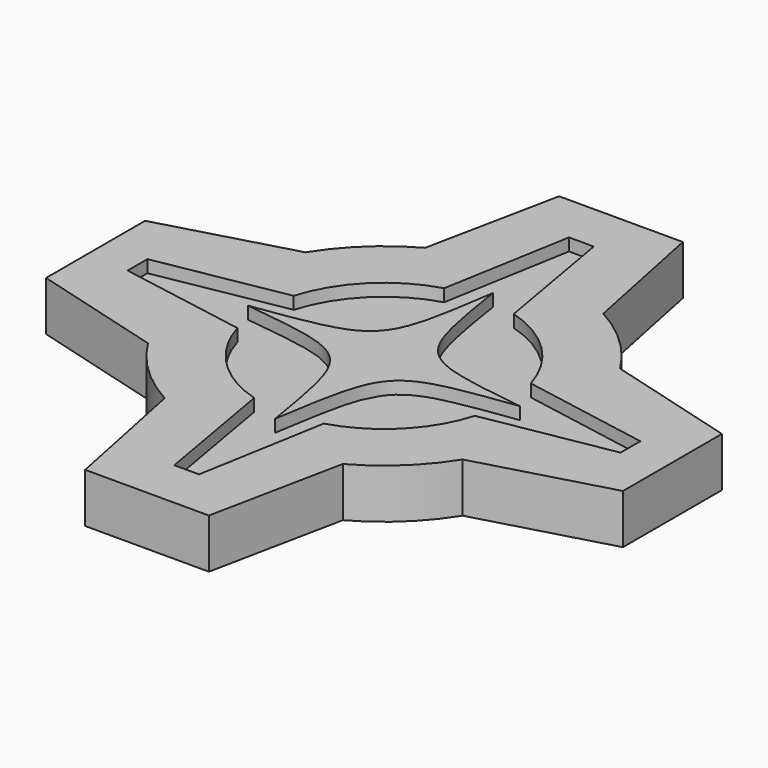
from build123d import *

# Parameters (mm, degrees)
F1_DEPTH = 2
F2_DEPTH = 1.5


with BuildPart() as f1:
    # F0 (on Top) → F1 (new body)
    with BuildSketch(Plane.XY):
        with BuildLine():
            Line((2.5, 11.969367), (-2.5, 11.969367))
            Line((-2.5, 11.969367), (-3.598701, 6.580224))
            ThreePointArc((-3.598701, 6.580224), (-5.145545, 5.456497), (-6.357999, 3.978171))
            Line((-6.357999, 3.978171), (-11.655641, 2.5))
            Line((-11.655641, 2.5), (-11.655641, -2.5))
            Line((-11.655641, -2.5), (-6.357999, -3.978171))
            ThreePointArc((-6.357999, -3.978171), (-5.145545, -5.456497), (-3.598701, -6.580224))
            Line((-3.598701, -6.580224), (-2.5, -11.969367))
            Line((-2.5, -11.969367), (2.5, -11.969367))
            Line((2.5, -11.969367), (3.598701, -6.580224))
            ThreePointArc((3.598701, -6.580224), (5.145545, -5.456497), (6.357999, -3.978171))
            Line((6.357999, -3.978171), (11.655641, -2.5))
            Line((11.655641, -2.5), (11.655641, 2.5))
            Line((11.655641, 2.5), (6.357999, 3.978171))
            ThreePointArc((6.357999, 3.978171), (5.145545, 5.456497), (3.598701, 6.580224))
            Line((3.598701, 6.580224), (2.5, 11.969367))
        make_face()
        with BuildLine():
            ThreePointArc((-4.792149, 1.426642), (-3.528005, 3.543047), (-1.406242, 4.798175))
            Line((-1.406242, 4.798175), (-0.5, 9.969367))
            Line((-0.5, 9.969367), (0.5, 9.969367))
            Line((0.5, 9.969367), (1.406242, 4.798175))
            ThreePointArc((1.406242, 4.798175), (3.528005, 3.543047), (4.792149, 1.426642))
            Line((4.792149, 1.426642), (9.959724, 0.5))
            Line((9.959724, 0.5), (9.959724, -0.5))
            Line((9.959724, -0.5), (4.798697, -1.404461))
            ThreePointArc((4.798697, -1.404461), (3.53619, -3.534878), (1.406242, -4.798175))
            Line((1.406242, -4.798175), (0.5, -9.969367))
            Line((0.5, -9.969367), (-0.5, -9.969367))
            Line((-0.5, -9.969367), (-1.406242, -4.798175))
            ThreePointArc((-1.406242, -4.798175), (-3.53619, -3.534878), (-4.798697, -1.404461))
            Line((-4.798697, -1.404461), (-9.959724, -0.5))
            Line((-9.959724, -0.5), (-9.959724, 0.5))
            Line((-9.959724, 0.5), (-4.792149, 1.426642))
        make_face(mode=Mode.SUBTRACT)
        with BuildLine():
            add(Edge.make_bspline(
                [(0, 5.5), (-0.722807, 0.69105), (-0.722807, 0.69105), (-5.5, 0)],
                knots=[0, 0, 0, 0, 7.778175, 7.778175, 7.778175, 7.778175], degree=3))
            add(Edge.make_bspline(
                [(-5.5, 0), (-0.81189, -0.58381), (-0.81189, -0.58381), (0, -5.5)],
                knots=[0, 0, 0, 0, 7.778175, 7.778175, 7.778175, 7.778175], degree=3))
            add(Edge.make_bspline(
                [(0, -5.5), (0.769275, -0.638917), (0.769275, -0.638917), (5.5, 0)],
                knots=[0, 0, 0, 0, 7.778175, 7.778175, 7.778175, 7.778175], degree=3))
            add(Edge.make_bspline(
                [(5.5, 0), (0.764375, 0.644772), (0.764375, 0.644772), (0, 5.5)],
                knots=[0, 0, 0, 0, 7.778175, 7.778175, 7.778175, 7.778175], degree=3))
        make_face()
    extrude(amount=F1_DEPTH)


with BuildPart() as f2:
    # F0 (on Top) → F2 (new body)
    with BuildSketch(Plane.XY):
        with BuildLine():
            Line((-0.5, 9.969367), (-1.406242, 4.798175))
            ThreePointArc((-1.406242, 4.798175), (-3.528005, 3.543047), (-4.792149, 1.426642))
            Line((-4.792149, 1.426642), (-9.959724, 0.5))
            Line((-9.959724, 0.5), (-9.959724, -0.5))
            Line((-9.959724, -0.5), (-4.798697, -1.404461))
            ThreePointArc((-4.798697, -1.404461), (-3.53619, -3.534878), (-1.406242, -4.798175))
            Line((-1.406242, -4.798175), (-0.5, -9.969367))
            Line((-0.5, -9.969367), (0.5, -9.969367))
            Line((0.5, -9.969367), (1.406242, -4.798175))
            ThreePointArc((1.406242, -4.798175), (3.53619, -3.534878), (4.798697, -1.404461))
            Line((4.798697, -1.404461), (9.959724, -0.5))
            Line((9.959724, -0.5), (9.959724, 0.5))
            Line((9.959724, 0.5), (4.792149, 1.426642))
            ThreePointArc((4.792149, 1.426642), (3.528005, 3.543047), (1.406242, 4.798175))
            Line((1.406242, 4.798175), (0.5, 9.969367))
            Line((0.5, 9.969367), (-0.5, 9.969367))
        make_face()
        with BuildLine():
            add(Edge.make_bspline(
                [(-5.5, 0), (-0.81189, -0.58381), (-0.81189, -0.58381), (0, -5.5)],
                knots=[0, 0, 0, 0, 7.778175, 7.778175, 7.778175, 7.778175], degree=3))
            add(Edge.make_bspline(
                [(0, 5.5), (-0.722807, 0.69105), (-0.722807, 0.69105), (-5.5, 0)],
                knots=[0, 0, 0, 0, 7.778175, 7.778175, 7.778175, 7.778175], degree=3))
            add(Edge.make_bspline(
                [(5.5, 0), (0.764375, 0.644772), (0.764375, 0.644772), (0, 5.5)],
                knots=[0, 0, 0, 0, 7.778175, 7.778175, 7.778175, 7.778175], degree=3))
            add(Edge.make_bspline(
                [(0, -5.5), (0.769275, -0.638917), (0.769275, -0.638917), (5.5, 0)],
                knots=[0, 0, 0, 0, 7.778175, 7.778175, 7.778175, 7.778175], degree=3))
        make_face(mode=Mode.SUBTRACT)
    extrude(amount=F2_DEPTH)


solid = Compound([f1.part, f2.part])
